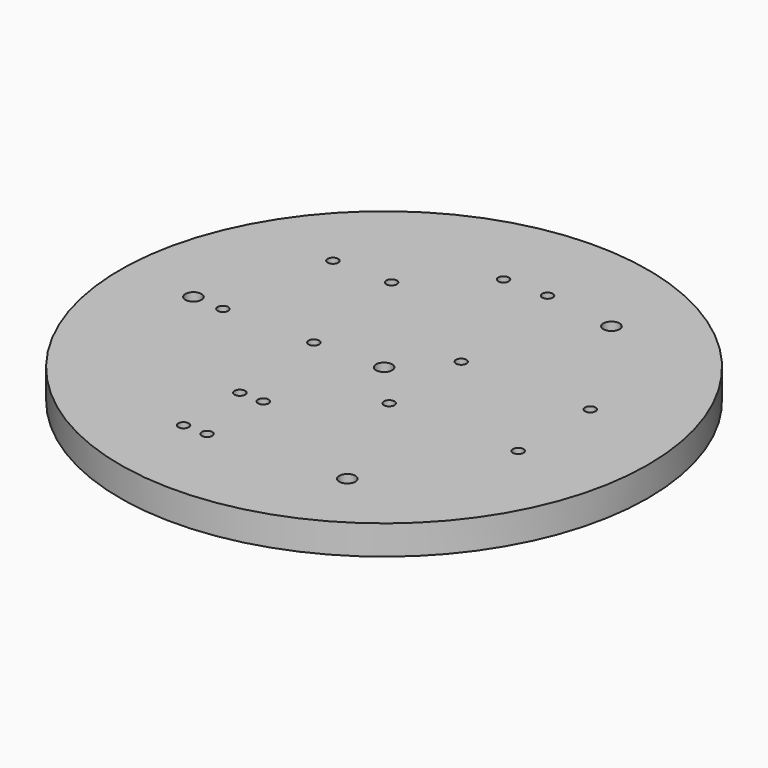
from build123d import *

# Parameters (mm, degrees)
F0_R           = 90
F3_DEPTH       = 10
F4_D           = 5.5
F4_DEPTH       = 30
F4_TIP         = 1.6523667023
F6_D           = 3.6
F6_CBORE_D     = 6.6
F6_CBORE_DEPTH = 4
F8_D           = 3.6
F8_DEPTH       = 30
F8_TIP         = 1.0815491142
F9_DEPTH       = 5


with BuildPart() as f3:
    # F0 (on Top) → F3 (new body)
    with BuildSketch(Plane.XY):
        Circle(F0_R)
    extrude(amount=F3_DEPTH)

    # F4
    with Locations(Plane(origin=(0, 0, 0), x_dir=(1, 0, 0), z_dir=(0, 0, -1))):
        with Locations((32.5, -56.291651246), (32.5, 56.291651246), (-65, 0), (0, 0)):
            Hole(F4_D / 2, depth=F4_DEPTH)
            with Locations((0, 0, -(F4_DEPTH + F4_TIP / 2))):  # 118° drill point
                Cone(0, F4_D / 2, F4_TIP, mode=Mode.SUBTRACT)

    # F6 (through all)
    with Locations(Plane(origin=(0, 0, 0), x_dir=(1, 0, 0), z_dir=(0, 0, -1))):
        with Locations((14.0151126623, 15.35), (58.0151126623, 15.35), (14.0151126623, -15.35), (58.0151126623, -15.35)):
            CounterBoreHole(F6_D / 2, F6_CBORE_D / 2, F6_CBORE_DEPTH)

    # F8
    with Locations(Plane(origin=(0, 0, 0), x_dir=(1, 0, 0), z_dir=(0, 0, -1))):
        with Locations((-12.8155729771, 59.4439784884), (-20.8155729771, 59.4439784884), (-12.8155729771, 35.4439784884), (-20.8155729771, 35.4439784884), (-49.032068802, -39.4834254403), (-29.032068802, -39.4834254403), (-6.8313475791, -59.4414137304), (8.1686524209, -59.4414137304), (-23.532068802, 0.5165745633), (-54.532068802, 0.5165745597)):
            Hole(F8_D / 2, depth=F8_DEPTH)
            with Locations((0, 0, -(F8_DEPTH + F8_TIP / 2))):  # 118° drill point
                Cone(0, F8_D / 2, F8_TIP, mode=Mode.SUBTRACT)

    # F7 (on face) → F9 (cut)
    with BuildSketch(Plane.XY):
        with BuildLine():
            Line((-54.4565801894, 1.4820002999), (-54.6077416208, 1.4819933337))
            ThreePointArc((-54.6077416208, 1.4819933337), (-56.5317107433, -0.5544177441), (-54.532068802, -2.5165745597))
            ThreePointArc((-54.532068802, -2.5165745597), (-53.1178552397, -1.9307881221), (-52.532068802, -0.5165745597))
            ThreePointArc((-52.532068802, -0.5165745597), (-53.091413183, 0.8706930379), (-54.4565801894, 1.4820002999))
        make_face()
        with BuildLine():
            ThreePointArc((-23.5321609709, 1.4834254345), (-25.5320688015, -0.5166206477), (-23.5320688023, -2.5165745633))
            ThreePointArc((-23.5320688023, -2.5165745633), (-22.1178552398, -1.9307881258), (-21.532068802, -0.5165745633))
            ThreePointArc((-21.532068802, -0.5165745633), (-22.1178878267, 0.8976715853), (-23.5321609709, 1.4834254345))
        make_face()
        with BuildLine():
            ThreePointArc((-52.532068802, -0.5165745597), (-53.1178552397, -1.9307881221), (-54.532068802, -2.5165745597))
            Line((-54.532068802, -2.5165745597), (-23.5320688023, -2.5165745633))
            ThreePointArc((-23.5320688023, -2.5165745633), (-25.5320688015, -0.5166206477), (-23.5321609709, 1.4834254345))
            Line((-23.5321609709, 1.4834254345), (-54.4565801894, 1.4820002999))
            ThreePointArc((-54.4565801894, 1.4820002999), (-53.091413183, 0.8706930379), (-52.532068802, -0.5165745597))
        make_face()
        with BuildLine():
            ThreePointArc((-29.032068802, 37.4834254403), (-31.032068802, 39.4834254403), (-29.032068802, 41.4834254403))
            Line((-29.032068802, 41.4834254403), (-49.032068802, 41.4834254403))
            ThreePointArc((-49.032068802, 41.4834254403), (-47.6178552397, 40.8976390026), (-47.032068802, 39.4834254403))
            ThreePointArc((-47.032068802, 39.4834254403), (-47.6178552397, 38.0692118779), (-49.032068802, 37.4834254403))
            Line((-49.032068802, 37.4834254403), (-29.032068802, 37.4834254403))
        make_face()
        with BuildLine():
            ThreePointArc((-47.032068802, 39.4834254403), (-47.6178552397, 40.8976390026), (-49.032068802, 41.4834254403))
            ThreePointArc((-49.032068802, 41.4834254403), (-51.032068802, 39.4834254403), (-49.032068802, 37.4834254403))
            ThreePointArc((-49.032068802, 37.4834254403), (-47.6178552397, 38.0692118779), (-47.032068802, 39.4834254403))
        make_face()
        with BuildLine():
            ThreePointArc((-29.032068802, 37.4834254403), (-27.6178552397, 38.0692118779), (-27.032068802, 39.4834254403))
            ThreePointArc((-27.032068802, 39.4834254403), (-27.6178552397, 40.8976390026), (-29.032068802, 41.4834254403))
            ThreePointArc((-29.032068802, 41.4834254403), (-31.032068802, 39.4834254403), (-29.032068802, 37.4834254403))
        make_face()
        with BuildLine():
            ThreePointArc((-6.8313475791, 61.4414137304), (-5.4171340168, 60.8556272928), (-4.8313475791, 59.4414137304))
            ThreePointArc((-4.8313475791, 59.4414137304), (-5.4171340168, 58.027200168), (-6.8313475791, 57.4414137304))
            Line((-6.8313475791, 57.4414137304), (8.1686524209, 57.4414137304))
            ThreePointArc((8.1686524209, 57.4414137304), (6.1686524209, 59.4414137304), (8.1686524209, 61.4414137304))
            Line((8.1686524209, 61.4414137304), (-6.8313475791, 61.4414137304))
        make_face()
        with BuildLine():
            ThreePointArc((-6.8313475791, 57.4414137304), (-5.4171340168, 58.027200168), (-4.8313475791, 59.4414137304))
            ThreePointArc((-4.8313475791, 59.4414137304), (-5.4171340168, 60.8556272928), (-6.8313475791, 61.4414137304))
            ThreePointArc((-6.8313475791, 61.4414137304), (-8.8313475791, 59.4414137304), (-6.8313475791, 57.4414137304))
        make_face()
        with BuildLine():
            ThreePointArc((10.1686524209, 59.4414137304), (9.5828659832, 60.8556272928), (8.1686524209, 61.4414137304))
            ThreePointArc((8.1686524209, 61.4414137304), (6.1686524209, 59.4414137304), (8.1686524209, 57.4414137304))
            ThreePointArc((8.1686524209, 57.4414137304), (9.5828659832, 58.027200168), (10.1686524209, 59.4414137304))
        make_face()
    extrude(amount=F9_DEPTH, mode=Mode.SUBTRACT)


solid = f3.part
